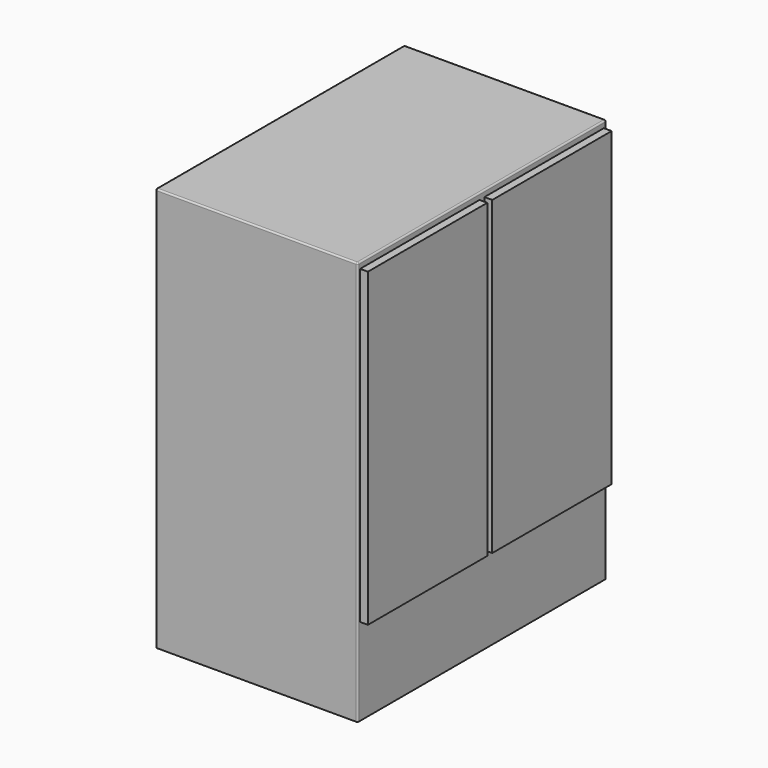
from build123d import *

# Parameters (mm, degrees)
F0_W     = 650
F0_H     = 1300
F1_DEPTH = 1000
F2_W     = 480
F2_H     = 1000
F3_DEPTH = 25
F4_R     = 5


with BuildPart() as f1:
    # F0 (on Front) → F1 (new body)
    with BuildSketch(Plane.XZ):
        with Locations((325, 650)):
            Rectangle(F0_W, F0_H)
    extrude(amount=F1_DEPTH)

    # F2 (on face) → F3 (join)
    with BuildSketch(Plane.YZ.offset(650)):
        with Locations((-250, 780)):
            Rectangle(F2_W, F2_H)
        with Locations((-750, 780)):
            Rectangle(F2_W, F2_H)
    extrude(amount=F3_DEPTH)

    # F4
    f4_edges = [f1.edges().sort_by_distance(p)[0] for p in [
        (325, -1000, 1300),
        (0, -1000, 650),
        (650, -1000, 650),
        (650, -500, 1300),
        (0, -500, 1300),
        (325, 0, 1300),
        (650, 0, 650),
        (0, 0, 650),
    ]]
    fillet(f4_edges, radius=F4_R)


solid = f1.part
